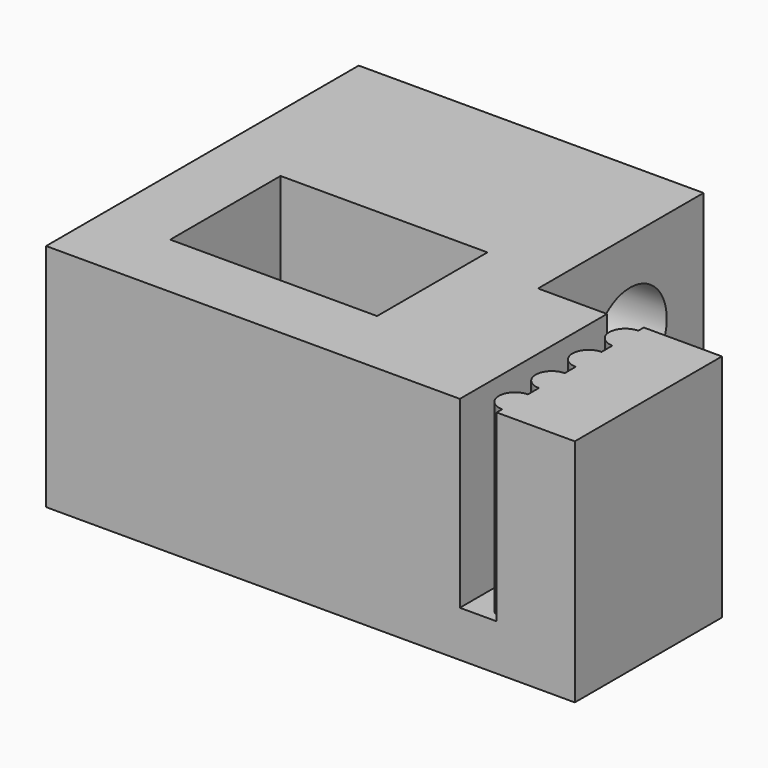
from build123d import *

# Parameters (mm, degrees)
SKETCH_W        = 10
SKETCH_H        = 17
PAD_DEPTH       = 23
SKETCH001_W     = 9
SKETCH001_H     = 8
POCKET_DEPTH    = 20
SKETCH002_R     = 2
POCKET001_DEPTH = 30
SKETCH003_W     = 8
SKETCH003_H     = 1.6
POCKET002_DEPTH = 8
SKETCH004_R     = 0.7
PAD001_DEPTH    = 8
SKETCH005_W     = 6
SKETCH005_H     = 9
POCKET003_DEPTH = 10


with BuildPart() as part:
    # Sketch → Pad (new body)
    with BuildSketch(Plane.ZY):
        with Locations((-44.312478, 27.275098)):
            Rectangle(SKETCH_W, SKETCH_H)
    extrude(amount=PAD_DEPTH)

    # Sketch001 → Pocket (cut)
    with BuildSketch(Plane(origin=(0, 0, -39.312478), x_dir=(0, 1, 0), z_dir=(0, 0, 1))):
        with Locations((31.275098, 4)):
            Rectangle(SKETCH001_W, SKETCH001_H)
    extrude(amount=-POCKET_DEPTH, mode=Mode.SUBTRACT)

    # Sketch002 → Pocket001 (cut)
    with BuildSketch(Plane(origin=(-8, 0, 0), x_dir=(0, 0, 1), z_dir=(1, 0, 0))):
        with Locations((-43.312478, -31.775098)):
            Circle(SKETCH002_R)
    extrude(amount=-POCKET001_DEPTH, mode=Mode.SUBTRACT)

    # Sketch003 → Pocket002 (cut)
    with BuildSketch(Plane(origin=(0, 18.775098, 0), x_dir=(0, 0, 1), z_dir=(0, -1, 0))):
        with Locations((-43.312478, 4.2)):
            Rectangle(SKETCH003_W, SKETCH003_H)
    extrude(amount=-POCKET002_DEPTH, mode=Mode.SUBTRACT)

    # Sketch004 → Pad001 (new body)
    with BuildSketch(Plane(origin=(0, 0, -39.312478), x_dir=(0, 1, 0), z_dir=(0, 0, 1))):
        with Locations((19.775098, 3.4)):
            Circle(SKETCH004_R)
        with Locations((21.775098, 3.4)):
            Circle(SKETCH004_R)
        with Locations((23.775098, 3.4)):
            Circle(SKETCH004_R)
        with Locations((25.775098, 3.4)):
            Circle(SKETCH004_R)
    extrude(amount=-PAD001_DEPTH)

    # Sketch005 → Pocket003 (cut)
    with BuildSketch(Plane(origin=(0, 0, -39.312478), x_dir=(0, 1, 0), z_dir=(0, 0, 1))):
        with Locations((24.775098, 15.5)):
            Rectangle(SKETCH005_W, SKETCH005_H)
    extrude(amount=-POCKET003_DEPTH, mode=Mode.SUBTRACT)


solid = part.part
